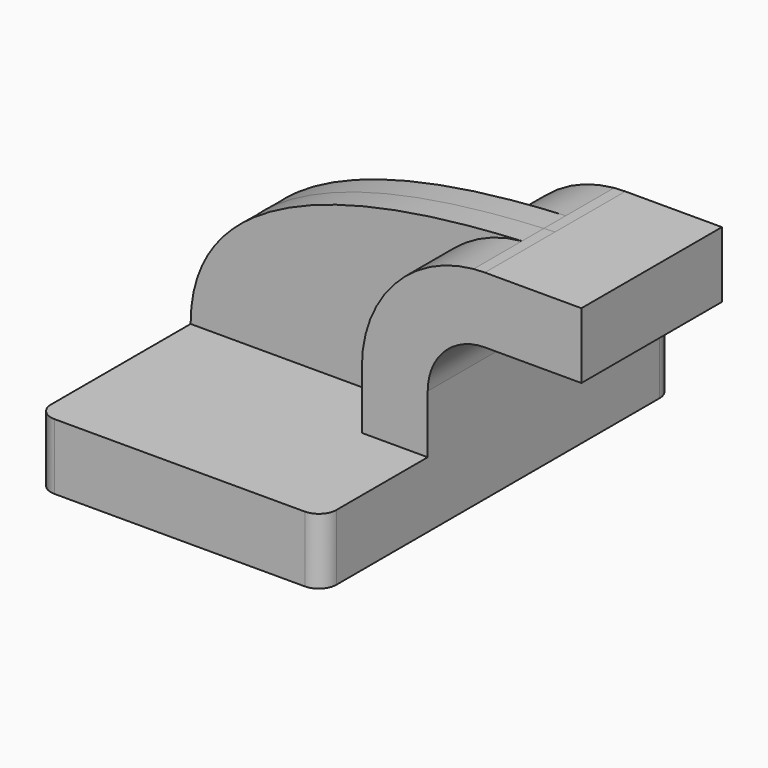
from build123d import *

# Parameters (mm, degrees)
F1_DEPTH = 63.5
F0_W     = 24.512149
F0_H     = 19.05
F2_DEPTH = 25.4
F3_DEPTH = 7.9375
F4_R     = 5.08


with BuildPart() as f1:
    # F0 (on Front) → F1 (new body, symmetric)
    with BuildSketch(Plane.XZ):
        Polygon((22.225, 9.525), (-41.275, 9.525), (-41.275, -9.525), (41.275, -9.525), (41.275, 9.525), align=None)
    extrude(amount=F1_DEPTH, both=True)

    # F0 (on Front) → F2 (join, symmetric)
    with BuildSketch(Plane.XZ):
        with BuildLine():
            Line((22.225, 26.3652), (22.225, 9.525))
            Line((22.225, 9.525), (41.275, 9.525))
            Line((41.275, 9.525), (41.275, 26.3652))
            ThreePointArc((41.275, 26.3652), (46.110667, 38.039533), (57.785, 42.8752))
            Line((57.785, 42.8752), (61.212851, 42.8752))
            Line((61.212851, 42.8752), (61.212851, 61.9252))
            Line((61.212851, 61.9252), (57.785, 61.9252))
            add(Edge.make_bspline(
                [(54.550323, 61.777775), (55.650758, 61.832388), (56.729755, 61.881267), (57.785, 61.9252)],
                knots=[108.765269, 108.765269, 108.765269, 108.765269, 112.065448, 112.065448, 112.065448, 112.065448], degree=3))
            ThreePointArc((54.550323, 61.777775), (31.521539, 50.339024), (22.225, 26.3652))
        make_face()
        with Locations((73.468925, 52.4002)):
            Rectangle(F0_W, F0_H)
    extrude(amount=F2_DEPTH, both=True)

    # F0 (on Front) → F3 (join, symmetric)
    with BuildSketch(Plane.XZ):
        with BuildLine():
            add(Edge.make_bspline(
                [(-41.275, 9.525), (-41.271032, 51.950031), (18.282835, 59.977869), (54.550323, 61.777775)],
                knots=[0, 0, 0, 0, 108.765269, 108.765269, 108.765269, 108.765269], degree=3))
            Line((-41.275, 9.525), (22.225, 9.525))
            Line((22.225, 9.525), (22.225, 26.3652))
            ThreePointArc((22.225, 26.3652), (31.521539, 50.339024), (54.550323, 61.777775))
        make_face()
    extrude(amount=F3_DEPTH, both=True)

    # F4
    f4_edges = [f1.edges().sort_by_distance(p)[0] for p in [
        (41.275, -63.5, 0),
        (41.275, 63.5, 0),
        (-41.275, -63.5, 0),
        (-41.275, 63.5, 0),
    ]]
    fillet(f4_edges, radius=F4_R)


solid = f1.part
